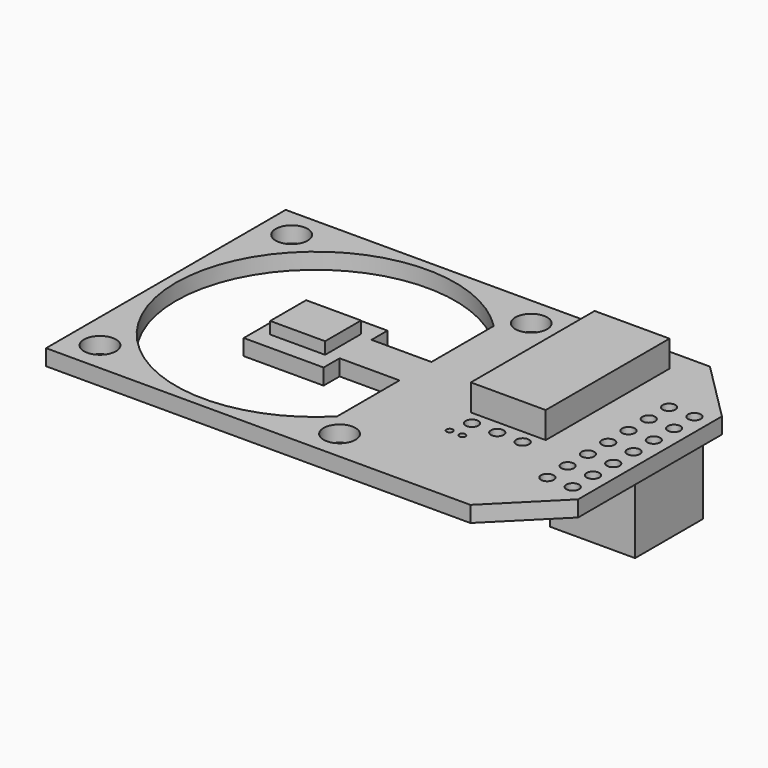
from build123d import *

# Parameters (mm, degrees)
F0_R     = 1.6
F0_W     = 6
F0_H     = 4
F1_DEPTH = 1.6
F2_W     = 5.5
F2_H     = 4.5
F3_DEPTH = 1.2
F2_W_2   = 7.5
F2_H_2   = 15.5
F4_DEPTH = 2.65
F2_R     = 0.635
F2_R_2   = 0.3175
F5_DEPTH = 25
F6_W     = 8.5
F6_H     = 8.5
F7_DEPTH = 11.9
F6_W_2   = 2
F6_H_2   = 2.25
F8_DEPTH = 0.8
F6_W_3   = 3
F6_H_3   = 3.25
F9_DEPTH = 1.1


with BuildPart() as f1:
    # F0 (on Top) → F1 (new body)
    with BuildSketch(Plane.XY):
        Polygon((-15, 15), (-15, -15), (27.5, -15), (33.5, -9), (33.5, 9), (27.5, 15), align=None)
        with Locations((-12, -12)):
            Circle(F0_R, mode=Mode.SUBTRACT)
        with Locations((12, -12)):
            Circle(F0_R, mode=Mode.SUBTRACT)
        with BuildLine():
            ThreePointArc((10, 9.7979589711), (12.5492658483, 6.2061200978), (13.8564064606, 2))
            Line((13.8564064606, 2), (14, 2))
            Line((14, 2), (14, 0))
            Line((14, 0), (14, -2))
            Line((14, -2), (13.8564064606, -2))
            ThreePointArc((13.8564064606, -2), (12.5492658483, -6.2061200978), (10, -9.7979589711))
            ThreePointArc((10, -9.7979589711), (-14, 0), (10, 9.7979589711))
        make_face(mode=Mode.SUBTRACT)
        with Locations((-12, 12)):
            Circle(F0_R, mode=Mode.SUBTRACT)
        with Locations((12, 12)):
            Circle(F0_R, mode=Mode.SUBTRACT)
        Polygon((4, 2), (4, 4), (-4, 4), (-4, -4), (4, -4), (4, -2), align=None)
        with Locations((7, 0)):
            Rectangle(F0_W, F0_H)
        with BuildLine():
            Line((10, 9.7979589711), (10, 2))
            Line((10, 2), (13.8564064606, 2))
            ThreePointArc((13.8564064606, 2), (12.5492658483, 6.2061200978), (10, 9.7979589711))
        make_face()
        with BuildLine():
            Line((13.8564064606, -2), (10, -2))
            Line((10, -2), (10, -9.7979589711))
            ThreePointArc((10, -9.7979589711), (12.5492658483, -6.2061200978), (13.8564064606, -2))
        make_face()
        with BuildLine():
            Line((13.8564064606, 2), (10, 2))
            Line((10, 2), (10, -2))
            Line((10, -2), (13.8564064606, -2))
            ThreePointArc((13.8564064606, -2), (13.964055472, -1.0025740751), (14, 0))
            ThreePointArc((14, 0), (13.964055472, 1.0025740751), (13.8564064606, 2))
        make_face()
        with BuildLine():
            Line((14, 2), (13.8564064606, 2))
            ThreePointArc((13.8564064606, 2), (13.964055472, 1.0025740751), (14, 0))
            Line((14, 0), (14, 2))
        make_face()
        with BuildLine():
            ThreePointArc((14, 0), (13.964055472, -1.0025740751), (13.8564064606, -2))
            Line((13.8564064606, -2), (14, -2))
            Line((14, -2), (14, 0))
        make_face()
    extrude(amount=F1_DEPTH)

    # F2 (on face) → F3 (join)
    with BuildSketch(Plane.XY.offset(1.6)):
        Rectangle(F2_W, F2_H)
    extrude(amount=F3_DEPTH)

    # F2 (on face) → F4 (join)
    with BuildSketch(Plane.XY.offset(1.6)):
        with Locations((21.5, 5)):
            Rectangle(F2_W_2, F2_H_2)
    extrude(amount=F4_DEPTH)

    # F2 (on face) → F5 (cut)
    with BuildSketch(Plane.XY.offset(1.6)):
        with Locations((18.96, -4.125)):
            Circle(F2_R)
        with Locations((21.5, -4.125)):
            Circle(F2_R)
        with Locations((24.04, -4.125)):
            Circle(F2_R)
        with Locations((19.645, -6.1875)):
            Circle(F2_R_2)
        with Locations((18.375, -6.1875)):
            Circle(F2_R_2)
        with Locations((29.3125, -7.625)):
            Circle(F2_R)
        with Locations((31.8525, -7.625)):
            Circle(F2_R)
        with Locations((31.8525, -5.085)):
            Circle(F2_R)
        with Locations((29.3125, -5.085)):
            Circle(F2_R)
        with Locations((29.3125, -2.545)):
            Circle(F2_R)
        with Locations((31.8525, -2.545)):
            Circle(F2_R)
        with Locations((31.8525, -0.005)):
            Circle(F2_R)
        with Locations((29.3125, -0.005)):
            Circle(F2_R)
        with Locations((29.3125, 2.535)):
            Circle(F2_R)
        with Locations((31.8525, 2.535)):
            Circle(F2_R)
        with Locations((31.8525, 5.075)):
            Circle(F2_R)
        with Locations((29.3125, 5.075)):
            Circle(F2_R)
        with Locations((29.3125, 7.615)):
            Circle(F2_R)
        with Locations((31.8525, 7.615)):
            Circle(F2_R)
    extrude(amount=-F5_DEPTH, mode=Mode.SUBTRACT)

    # F6 (on face) → F7 (join)
    with BuildSketch(Plane(origin=(0, 0, 0), x_dir=(1, 0, 0), z_dir=(0, 0, -1))):
        with Locations((22.75, -10.5)):
            Rectangle(F6_W, F6_H)
    extrude(amount=F7_DEPTH)

    # F6 (on face) → F8 (join)
    with BuildSketch(Plane(origin=(0, 0, 0), x_dir=(1, 0, 0), z_dir=(0, 0, -1))):
        with Locations((19, 9.375)):
            Rectangle(F6_W_2, F6_H_2)
    extrude(amount=F8_DEPTH)

    # F6 (on face) → F9 (join)
    with BuildSketch(Plane(origin=(0, 0, 0), x_dir=(1, 0, 0), z_dir=(0, 0, -1))):
        with Locations((25.25, 9.375)):
            Rectangle(F6_W_3, F6_H_3)
    extrude(amount=F9_DEPTH)


solid = f1.part
